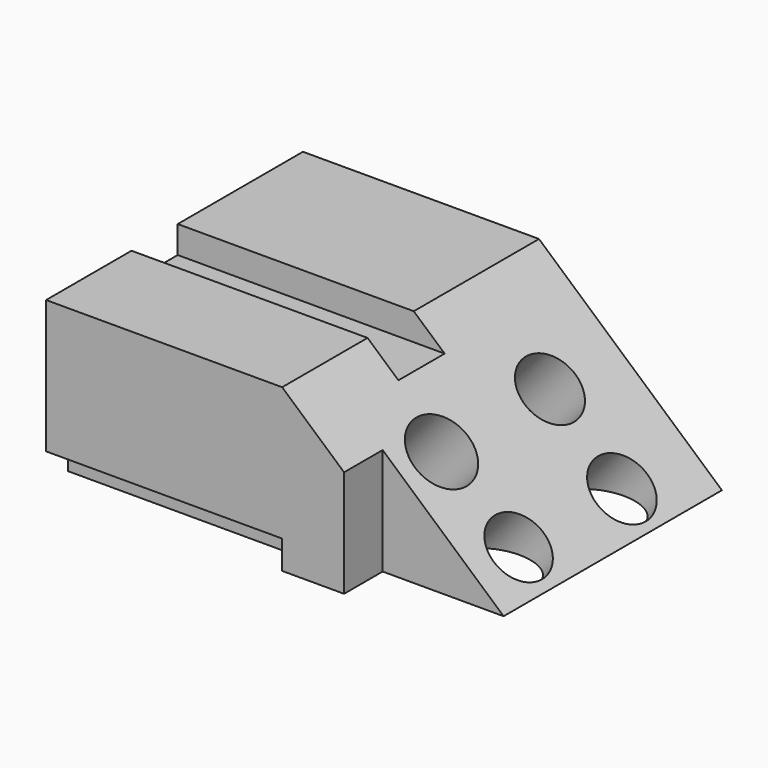
from build123d import *

# Parameters (mm, degrees)
F0_W      = 65.9222155809
F0_H      = 45.1669357717
F1_DEPTH  = 76.2
F2_W      = 65.9222155809
F2_H      = 16.1303170025
F3_DEPTH  = 7.62
F5_DEPTH  = 13.462
F6_W      = 51.6149867326
F6_H      = 45.1669357717
F7_DEPTH  = 13.462
F8_W      = 65.9222155809
F8_H      = 7.957983762
F9_DEPTH  = 7.62
F10_DEPTH = 25.4
F11_R     = 9.3419450296
F11_R_2   = 8.7268718577
F11_R_3   = 8.921818007
F11_R_4   = 8.8708982801
F12_DEPTH = 88.646


with BuildPart() as f1:
    # F0 (on Front) → F1 (new body)
    with BuildSketch(Plane.XZ):
        with Locations((-32.9611077905, 22.5834678859)):
            Rectangle(F0_W, F0_H)
        Polygon((0, 45.1669357717), (0, 0), (51.0816499591, 0), align=None)
    extrude(amount=F1_DEPTH)

    # F2 (on face) → F3 (cut)
    with BuildSketch(Plane.XY.offset(45.1669357717)):
        with Locations((-32.9611077905, -51.7781917006)):
            Rectangle(F2_W, F2_H)
    extrude(amount=-F3_DEPTH, mode=Mode.SUBTRACT)

    # F4 (on face) → F5 (join)
    with BuildSketch(Plane.XZ.offset(76.2)):
        Polygon((17.2973467296, 0), (17.2973467296, 29.8724386405), (0, 45.1669357717), (-14.3072288483, 45.1669357717), (-14.3072288483, 0), align=None)
    extrude(amount=F5_DEPTH)

    # F6 (on face) → F7 (join)
    with BuildSketch(Plane.XZ.offset(76.2)):
        with Locations((-40.1147222146, 22.5834678859)):
            Rectangle(F6_W, F6_H)
    extrude(amount=F7_DEPTH)

    # F8 (on face) → F9 (cut)
    with BuildSketch(Plane.XZ.offset(89.662)):
        with Locations((-32.9611077905, 3.978991881)):
            Rectangle(F8_W, F8_H)
    extrude(amount=-F9_DEPTH, mode=Mode.SUBTRACT)

    # F10 (cut): a face of the model
    f10_faces = [f1.faces().sort_by_distance(p)[0] for p in [
        (0, -51.7781917006, 41.3569357717),
    ]]
    extrude(f10_faces, amount=-F10_DEPTH, mode=Mode.SUBTRACT)

    # F11 (on face) → F12 (cut)
    with BuildSketch(Plane(origin=(22.4135408595, 0, 25.348645618), x_dir=(0.7491470366, 0, -0.6624037421), z_dir=(0.6624037421, 0, 0.7491470366))):
        with Locations((0, -62.0419606566)):
            Circle(F11_R)
        with Locations((26.7226807773, -60.1655058563)):
            Circle(F11_R_2)
        with Locations((0, -24.1914074868)):
            Circle(F11_R_3)
        with Locations((26.9680060446, -24.3262052536)):
            Circle(F11_R_4)
    extrude(amount=-F12_DEPTH, mode=Mode.SUBTRACT)


solid = f1.part
